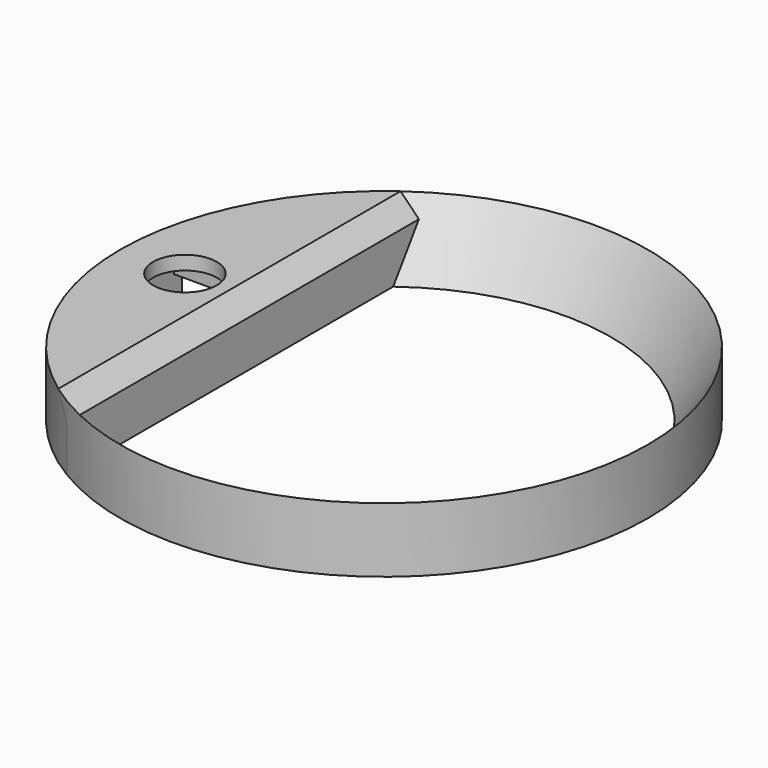
from build123d import *

# Parameters (mm, degrees)
SKETCH011_W     = 12.14
SKETCH011_H     = 29
PAD009_DEPTH    = 2.5
CHAMFER002_SIZE = 0.25
SKETCH012_W     = 12.14
SKETCH012_H     = 12.18
PAD010_DEPTH    = 3
SKETCH013_R     = 3.44
PAD011_DEPTH    = 4
PAD008_DEPTH    = 7
CHAMFER001_SIZE = 2
SKETCH004_R     = 28.5
SKETCH004_R_2   = 24.5
PAD002_DEPTH    = 7


with BuildPart() as obj1:
    # Sketch011 → Pad009 (new body)
    with BuildSketch(Plane.XY):
        with Locations((-21.5, 0)):
            Rectangle(SKETCH011_W, SKETCH011_H)
    extrude(amount=PAD009_DEPTH)

    # Chamfer002
    chamfer002_edges = [obj1.edges().sort_by_distance(p)[0] for p in [
        (-15.43, 0, 0),
        (-27.57, 0, 0),
    ]]
    chamfer(chamfer002_edges, length=CHAMFER002_SIZE)

    # Sketch012 → Pad010 (new body)
    with BuildSketch(Plane.XY.offset(2.5)):
        with Locations((-21.5, 0)):
            Rectangle(SKETCH012_W, SKETCH012_H)
    extrude(amount=PAD010_DEPTH)

    # Sketch013 → Pad011 (new body)
    with BuildSketch(Plane.XY.offset(5.5)):
        with Locations((-21.5, 0)):
            Circle(SKETCH013_R)
    extrude(amount=PAD011_DEPTH)


with BuildPart() as chamfer_left_mount:
    # Sketch010 → Pad008 (new body)
    with BuildSketch(Plane.XY):
        with BuildLine():
            ThreePointArc((-14.7, 24.416388), (-28.5, 0), (-14.7, -24.416388))
            Line((-14.7, 24.416388), (-14.7, -24.416388))
        make_face()
    extrude(amount=PAD008_DEPTH)

    # Chamfer001
    chamfer001_edges = [chamfer_left_mount.edges().sort_by_distance(p)[0] for p in [
        (-14.7, 0, 7),
    ]]
    chamfer(chamfer001_edges, length=CHAMFER001_SIZE)


with BuildPart() as cone:
    # Cone → Cone (revolve)
    with BuildSketch(Plane.XZ):
        Polygon((0, 0), (24.5, 0), (28.5, 7), (0, 7), align=None)
    revolve(axis=Axis((0, 0, 0), (0, 0, 1)))


with BuildPart() as cut_left_mount_encoder:
    # Sketch004 → Pad002 (new body)
    with BuildSketch(Plane.XY):
        Circle(SKETCH004_R)
        Circle(SKETCH004_R_2, mode=Mode.SUBTRACT)
    extrude(amount=PAD002_DEPTH)

    # Cut: cut Cone
    add(cone.part, mode=Mode.SUBTRACT)

    # Fusion: union Chamfer (left mount)
    add(chamfer_left_mount.part)

    # Cut001: cut obj1)
    add(obj1.part, mode=Mode.SUBTRACT)


solid = cut_left_mount_encoder.part
